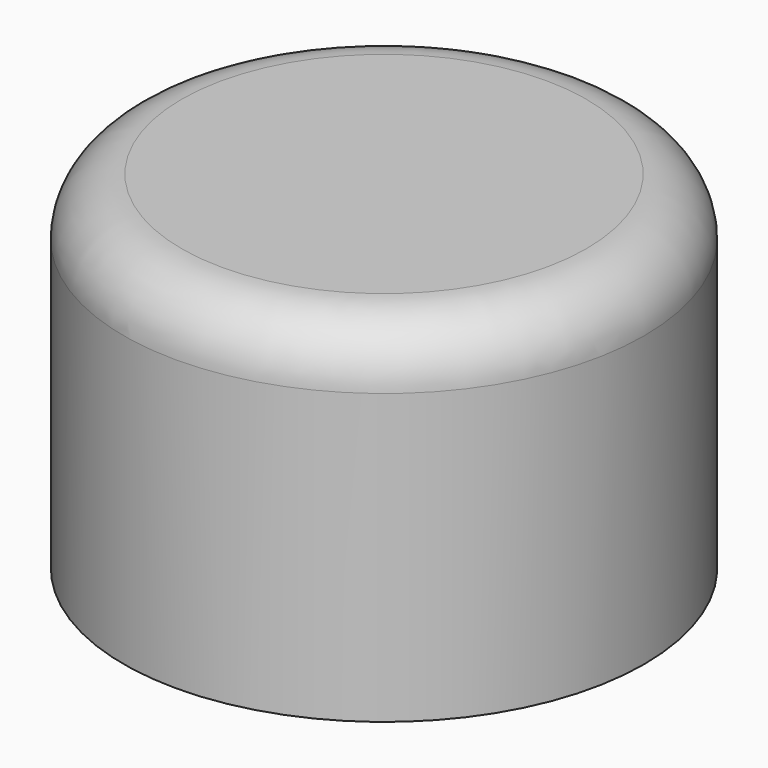
from build123d import *

# Parameters (mm, degrees)
CYLINDER021_R     = 3.5
CYLINDER021_DEPTH = 6
CYLINDER017_R     = 6
CYLINDER017_DEPTH = 4
CYLINDER015_R     = 9
CYLINDER015_DEPTH = 12
FILLET012_R       = 2


with BuildPart() as knob_cut003:
    # Cylinder021 → Cylinder021 (new body)
    with BuildSketch(Plane.XY.offset(10)):
        Circle(CYLINDER021_R)
    extrude(amount=CYLINDER021_DEPTH)


with BuildPart() as knob_cut001:
    # Cylinder017 → Cylinder017 (new body)
    with BuildSketch(Plane.XY.offset(6)):
        Circle(CYLINDER017_R)
    extrude(amount=CYLINDER017_DEPTH)


with BuildPart() as knob003:
    # Cylinder015 → Cylinder015 (new body)
    with BuildSketch(Plane.XY.offset(6)):
        Circle(CYLINDER015_R)
    extrude(amount=CYLINDER015_DEPTH)

    # Cut020: cut KNOB_cut001
    add(knob_cut001.part, mode=Mode.SUBTRACT)

    # Cut021: cut KNOB_cut003
    add(knob_cut003.part, mode=Mode.SUBTRACT)

    # Fillet012
    fillet012_edges = [knob003.edges().sort_by_distance(p)[0] for p in [
        (-9, 0, 18),
    ]]
    fillet(fillet012_edges, radius=FILLET012_R)


solid = knob003.part
